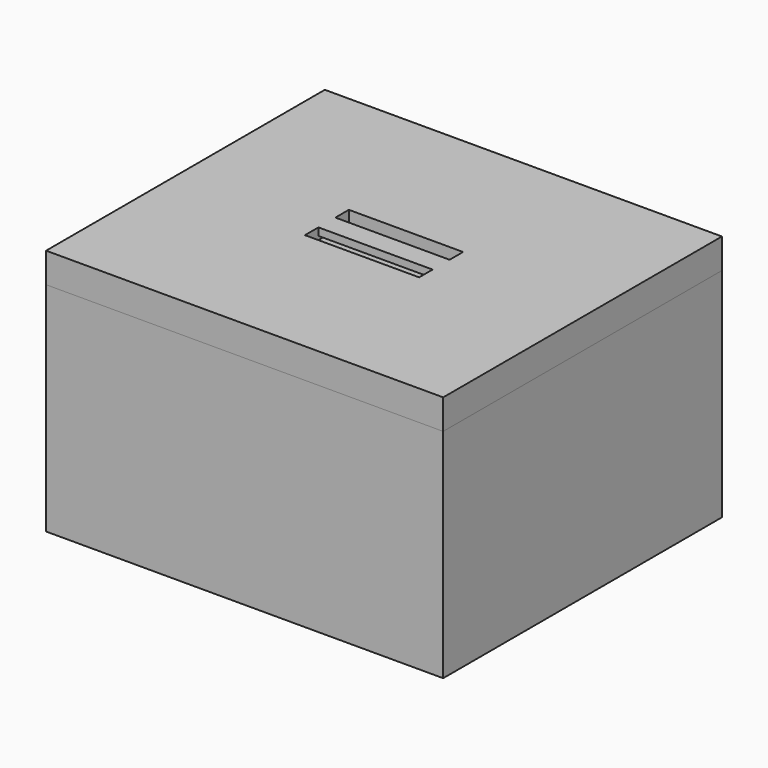
from build123d import *

# Parameters (mm, degrees)
F0_W         = 266.7
F0_H         = 349.25
F1_DEPTH     = 152.4
F5_W         = 539.75
F5_H         = 349.25
F6_DEPTH     = 50.8
F13_W        = 539.75
F13_H        = 260.35
F14_DEPTH    = 50.8
F21_W        = 673.1
F21_H        = 590.55
F22_DEPTH    = 368.3
F23_T        = -63.5
F24_W        = 546.1
F24_H        = 463.55
F25_DEPTH    = 25.4
F22_FACE_W   = 673.1
F22_FACE_H   = 590.55
F22_FACE_W_2 = 546.1
F22_FACE_H_2 = 463.55
F25_FACE_W   = 546.1
F25_FACE_H   = 463.55
F26_DEPTH    = 50.8
F27_W        = 193.5701817274
F27_H        = 28.5218954086
F27_H_2      = 35.9853618145
F28_DEPTH    = 19.05
F27_W_2      = 673.1
F27_H_3      = 590.55
F29_DEPTH    = 12.7


with BuildPart() as f1:
    # F0 (on Top) → F1 (new body)
    with BuildSketch(Plane.XY):
        with Locations((133.35, 174.625)):
            Rectangle(F0_W, F0_H)
    extrude(amount=F1_DEPTH)


with BuildPart() as f1_1:
    # F2: moved
    add(f1.part.moved(Location((3.175, 0, 0))))


with BuildPart() as f3_1:
    # F3: instance of F1
    add(f1_1.part.mirror(Plane.YZ))


with BuildPart() as f6:
    # F5 (on offset) → F6 (new body)
    with BuildSketch(Plane.XY.offset(155.575)):
        with Locations((0, 174.625)):
            Rectangle(F5_W, F5_H)
    extrude(amount=F6_DEPTH)


with BuildPart() as f11_1:
    # F11: instance of F6
    add(f6.part.mirror(Plane(origin=(266.7, 349.25, 76.2), x_dir=(-1, 0, 0), z_dir=(0, 0, -1))))


with BuildPart() as f14:
    # F13 (on offset) → F14 (new body)
    with BuildSketch(Plane.XZ.offset(3.175)):
        with Locations((0, 76.2)):
            Rectangle(F13_W, F13_H)
    extrude(amount=F14_DEPTH)


with BuildPart() as f19_1:
    # F19: instance of F14
    add(f14.part.mirror(Plane(origin=(266.7, 174.625, 0), x_dir=(0, 0, 1), z_dir=(0, 1, 0))))


with BuildPart() as f22:
    # F21 (on offset) → F22 (new body)
    with BuildSketch(Plane(origin=(0, 0, -120.65), x_dir=(1, 0, 0), z_dir=(0, 0, -1))):
        with Locations((0, -174.625)):
            Rectangle(F21_W, F21_H)
    extrude(amount=-F22_DEPTH)

    # F23
    f23_openings = [f22.faces().sort_by_distance(p)[0] for p in [
        (0, 174.625, 247.65),
    ]]
    offset(amount=F23_T, openings=f23_openings)


with BuildPart() as f25:
    # F24 (on face) → F25 (new body)
    with BuildSketch(Plane.XY.offset(247.65)):
        with Locations((0, 174.625)):
            Rectangle(F24_W, F24_H)
    extrude(amount=-F25_DEPTH)

    # F22_face (on face) + F25_face (on face) → F26 (join)
    with BuildSketch(Plane(origin=(0, 174.625, 247.65), x_dir=(1, 0, 0), z_dir=(0, 0, 1))):
        Rectangle(F22_FACE_W, F22_FACE_H)
        Rectangle(F22_FACE_W_2, F22_FACE_H_2, mode=Mode.SUBTRACT)
    with BuildSketch(Plane(origin=(0, 174.625, 247.65), x_dir=(1, 0, 0), z_dir=(0, 0, 1))):
        Rectangle(F25_FACE_W, F25_FACE_H)
    extrude(amount=F26_DEPTH)

    # F27 (on face) → F28 (cut)
    with BuildSketch(Plane.XY.offset(298.45)):
        with Locations((0, 142.3713713884)):
            Rectangle(F27_W, F27_H)
        with Locations((0, 174.625)):
            Rectangle(F27_W, F27_H_2)
        with Locations((0, 206.8786286116)):
            Rectangle(F27_W, F27_H)
    extrude(amount=-F28_DEPTH, mode=Mode.SUBTRACT)

    # F27 (on face) → F29 (join)
    with BuildSketch(Plane.XY.offset(298.45)):
        with Locations((0, 174.625)):
            Rectangle(F27_W_2, F27_H_3)
        Polygon((96.7850908637, 156.6323190928), (96.7850908637, 128.1104236841), (-96.7850908637, 128.1104236841), (-96.7850908637, 156.6323190928), (-96.7850908637, 192.6176809072), (-96.7850908637, 221.1395763159), (96.7850908637, 221.1395763159), (96.7850908637, 192.6176809072), align=None, mode=Mode.SUBTRACT)
        with Locations((0, 174.625)):
            Rectangle(F27_W, F27_H_2)
    extrude(amount=-F29_DEPTH)


solid = Compound([f1_1.part, f3_1.part, f6.part, f11_1.part, f14.part, f19_1.part, f22.part, f25.part])
